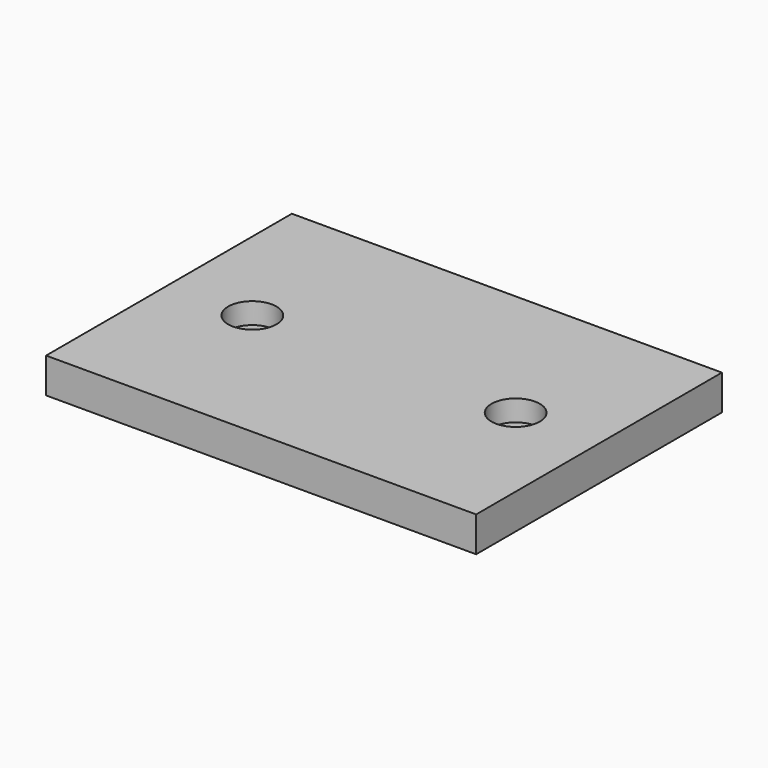
from build123d import *

# Parameters (mm, degrees)
CYLINDER003_R     = 2.75
CYLINDER003_DEPTH = 3.4
CYLINDER002_R     = 1.5
CYLINDER002_DEPTH = 5
CYLINDER001_R     = 2.75
CYLINDER001_DEPTH = 3.4
CYLINDER_R        = 1.5
CYLINDER_DEPTH    = 5
BOX_W             = 49
BOX_H             = 35
BOX_DEPTH         = 4


with BuildPart() as cylinder003:
    # Cylinder003 → Cylinder003 (new body)
    with BuildSketch(Plane.XY.offset(11.6)):
        Circle(CYLINDER003_R)
    extrude(amount=CYLINDER003_DEPTH)


with BuildPart() as fusion001:
    # Cylinder002 → Cylinder002 (new body)
    with BuildSketch(Plane.XY.offset(10)):
        Circle(CYLINDER002_R)
    extrude(amount=CYLINDER002_DEPTH)

    # Fusion001: union Cylinder003
    add(cylinder003.part)


with BuildPart() as fusion001_1:
    # Fusion001 placement: moved
    add(fusion001.part.moved(Location((39.5, 17.5, -10))))


with BuildPart() as cylinder001:
    # Cylinder001 → Cylinder001 (new body)
    with BuildSketch(Plane.XY.offset(11.6)):
        Circle(CYLINDER001_R)
    extrude(amount=CYLINDER001_DEPTH)


with BuildPart() as fusion:
    # Cylinder → Cylinder (new body)
    with BuildSketch(Plane.XY.offset(10)):
        Circle(CYLINDER_R)
    extrude(amount=CYLINDER_DEPTH)

    # Fusion: union Cylinder001
    add(cylinder001.part)


with BuildPart() as fusion_1:
    # Fusion placement: moved
    add(fusion.part.moved(Location((9.5, 17.5, -10))))


with BuildPart() as obj1:
    # Box → Box (new body)
    with BuildSketch(Plane.XY):
        with Locations((24.5, 17.5)):
            Rectangle(BOX_W, BOX_H)
    extrude(amount=BOX_DEPTH)

    # Cut: cut Fusion
    add(fusion_1.part, mode=Mode.SUBTRACT)

    # Cut001: cut Fusion001
    add(fusion001_1.part, mode=Mode.SUBTRACT)


solid = obj1.part
